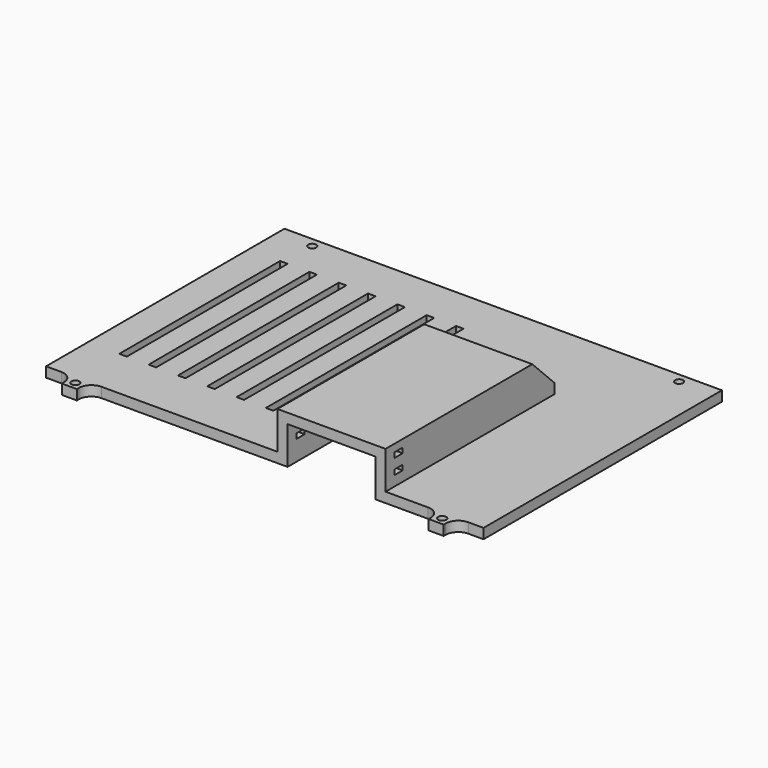
from build123d import *

# Parameters (mm, degrees)
SKETCH016_R            = 1.6
PAD005_DEPTH           = 4
FILLET_R               = 5
SKETCH017_W            = 35
SKETCH017_H            = 80
POCKET011_DEPTH        = 5
SKETCH018_W            = 43
SKETCH018_H            = 84
PAD006_DEPTH           = 15
SKETCH019_W            = 35
SKETCH019_H            = 15
POCKET012_DEPTH        = 80
CHAMFER002_SIZE        = 11
CHAMFER003_SIZE        = 11
SKETCH020_W            = 4
SKETCH020_H            = 2
POCKET013_DEPTH        = 135.111544
SKETCH021_W            = 3
SKETCH021_H            = 80
POCKET014_DEPTH        = 4.001
LINEARPATTERN002_COUNT = 7
LINEARPATTERN002_PITCH = 11.666667


with BuildPart() as part:
    # Sketch016 (on Face1 of ShapeBinder001) → Pad005 (new body)
    with BuildSketch(Plane.XY.offset(41.135521)):
        Polygon((-4.5, 114.100381), (-4.5, -4.5), (6.555272, -4.5), (6.555272, -10.5), (12.555272, -10.5), (12.555272, -4.5), (152.555272, -4.5), (152.555272, -10.5), (158.555272, -10.5), (158.555272, -4.5), (169.610544, -4.5), (169.610544, 114.100381), align=None)
        with Locations((9.555272, 110.350381)):
            Circle(SKETCH016_R, mode=Mode.SUBTRACT)
        with Locations((155.555272, 110.350381)):
            Circle(SKETCH016_R, mode=Mode.SUBTRACT)
        with Locations((9.555272, -7.5)):
            Circle(SKETCH016_R, mode=Mode.SUBTRACT)
        with Locations((155.555272, -7.5)):
            Circle(SKETCH016_R, mode=Mode.SUBTRACT)
    extrude(amount=PAD005_DEPTH)

    # Fillet
    fillet_edges = [part.edges().sort_by_distance(p)[0] for p in [
        (158.555272, -4.5, 43.135521),
        (152.555272, -4.5, 43.135521),
        (6.555272, -4.5, 43.135521),
        (12.555272, -4.5, 43.135521),
    ]]
    fillet(fillet_edges, radius=FILLET_R)

    # Sketch017 (on Face5 of Fillet) → Pocket011 (cut)
    with BuildSketch(Plane.XY.offset(45.135521)):
        with Locations((109.110544, 35.5)):
            Rectangle(SKETCH017_W, SKETCH017_H)
    extrude(amount=-POCKET011_DEPTH, mode=Mode.SUBTRACT)

    # Sketch018 (on Face5 of Pocket011) → Pad006 (join)
    with BuildSketch(Plane.XY.offset(45.135521)):
        with Locations((109.110544, 37.5)):
            Rectangle(SKETCH018_W, SKETCH018_H)
    extrude(amount=PAD006_DEPTH)

    # Sketch019 (on Face30 of Pad006) → Pocket012 (cut)
    with BuildSketch(Plane.XZ.offset(4.5)):
        with Locations((109.110544, 48.635521)):
            Rectangle(SKETCH019_W, SKETCH019_H)
    extrude(amount=-POCKET012_DEPTH, mode=Mode.SUBTRACT)

    # Chamfer002
    chamfer002_edges = [part.edges().sort_by_distance(p)[0] for p in [
        (109.110544, 75.5, 56.135521),
    ]]
    chamfer(chamfer002_edges, length=CHAMFER002_SIZE)

    # Chamfer003
    chamfer003_edges = [part.edges().sort_by_distance(p)[0] for p in [
        (109.110544, 79.5, 60.135521),
    ]]
    chamfer(chamfer003_edges, length=CHAMFER003_SIZE)

    # Sketch020 (on Face7 of Chamfer003) → Pocket013 (cut, through all)
    with BuildSketch(Plane.YZ.offset(130.610544)):
        with Locations((2, 56.135521)):
            Rectangle(SKETCH020_W, SKETCH020_H)
        with Locations((2, 50.135521)):
            Rectangle(SKETCH020_W, SKETCH020_H)
    extrude(amount=-POCKET013_DEPTH, mode=Mode.SUBTRACT)

    # Sketch021 (on Face4 of Pocket013) → Pocket014 (cut, through all)
    with BuildSketch(Plane.XY.offset(45.135521)):
        with Locations((9.522231, 56.277565)):
            Rectangle(SKETCH021_W, SKETCH021_H)
    pocket014 = extrude(amount=-POCKET014_DEPTH, mode=Mode.SUBTRACT)

    # LinearPattern002: Pocket014 ×7
    with Locations(*[(i * LINEARPATTERN002_PITCH, 0, 0) for i in range(1, LINEARPATTERN002_COUNT)]):
        add(pocket014, mode=Mode.SUBTRACT)


solid = part.part
